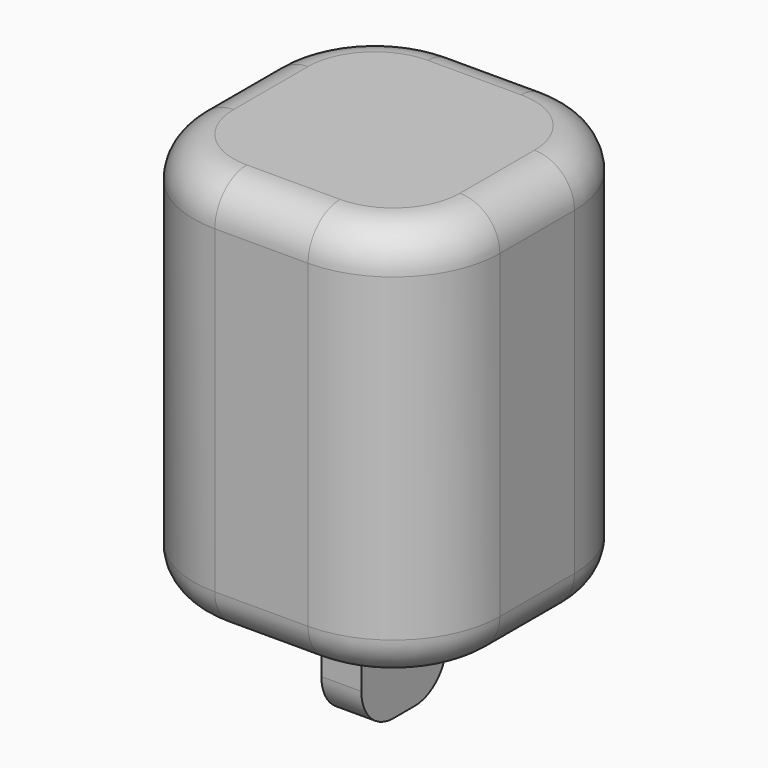
from build123d import *

# Parameters (mm, degrees)
F1_DEPTH = 30
F2_W     = 3
F2_H     = 8
F3_DEPTH = 8
F4_R     = 3


with BuildPart() as f1:
    # F0 (on Top) → F1 (new body)
    with BuildSketch(Plane.XY):
        with BuildLine():
            ThreePointArc((11.5, 3.5), (9.156854, 9.156854), (3.5, 11.5))
            Line((3.5, 11.5), (-3.5, 11.5))
            ThreePointArc((-3.5, 11.5), (-9.156854, 9.156854), (-11.5, 3.5))
            Line((-11.5, 3.5), (-11.5, -3.5))
            ThreePointArc((-11.5, -3.5), (-9.156854, -9.156854), (-3.5, -11.5))
            Line((-3.5, -11.5), (3.5, -11.5))
            ThreePointArc((3.5, -11.5), (9.156854, -9.156854), (11.5, -3.5))
            Line((11.5, -3.5), (11.5, 3.5))
        make_face()
    extrude(amount=F1_DEPTH)

    # F2 (on Top) → F3 (join)
    with BuildSketch(Plane.XY):
        Rectangle(F2_W, F2_H)
    extrude(amount=-F3_DEPTH)

    # F4
    f4_edges = [f1.edges().sort_by_distance(p)[0] for p in [
        (-9.156854, -9.156854, 30),
        (9.156854, -9.156854, 0),
        (-1.5, 0, 0),
        (0, -4, 0),
        (1.5, 0, 0),
        (0, 4, 0),
        (0, 4, -8),
        (0, -4, -8),
    ]]
    fillet(f4_edges, radius=F4_R)


solid = f1.part
